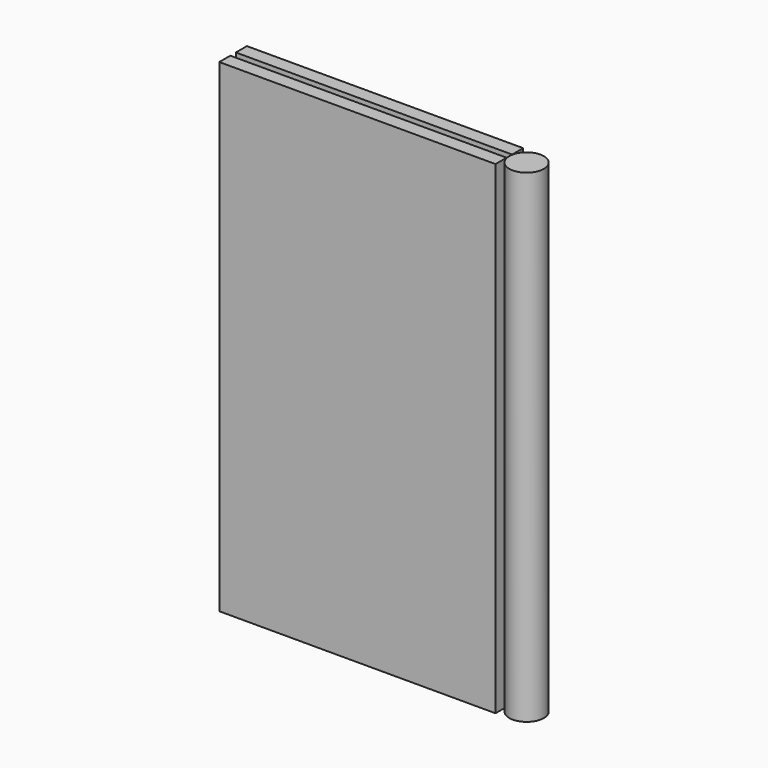
from build123d import *

# Parameters (mm, degrees)
BOX009001003002001001_W     = 2
BOX009001003002001001_H     = 40
BOX009001003002001001_DEPTH = 70
BOX009001003002002_W        = 2
BOX009001003002002_H        = 40
BOX009001003002002_DEPTH    = 70
CYLINDER005001001002_R      = 2.5
CYLINDER005001001002_DEPTH  = 70
FUSION001_PLACEMENT_ANGLE   = 90


with BuildPart() as obj1:
    # Box009001003002001001 → Box009001003002001001 (new body)
    with BuildSketch(Plane(origin=(3, 0, 0), x_dir=(1, 0, 0), z_dir=(0, 0, 1))):
        with Locations((1, 20)):
            Rectangle(BOX009001003002001001_W, BOX009001003002001001_H)
    extrude(amount=BOX009001003002001001_DEPTH)


with BuildPart() as obj2:
    # Box009001003002002 → Box009001003002002 (new body)
    with BuildSketch(Plane.XY):
        with Locations((1, 20)):
            Rectangle(BOX009001003002002_W, BOX009001003002002_H)
    extrude(amount=BOX009001003002002_DEPTH)


with BuildPart() as hinge002:
    # Cylinder005001001002 → Cylinder005001001002 (new body)
    with BuildSketch(Plane(origin=(2.5, -2.5, 0), x_dir=(1, 0, 0), z_dir=(0, 0, 1))):
        Circle(CYLINDER005001001002_R)
    extrude(amount=CYLINDER005001001002_DEPTH)

    # Fusion001: union obj1, obj2
    add(obj1.part)
    add(obj2.part)


with BuildPart() as hinge002_1:
    # Fusion001 placement: moved
    add(hinge002.part.moved(Location((2173, 1643, 1175.5))).rotate(Axis((2173, 1643, 1175.5), (0, 0, 1)), FUSION001_PLACEMENT_ANGLE))


solid = hinge002_1.part
